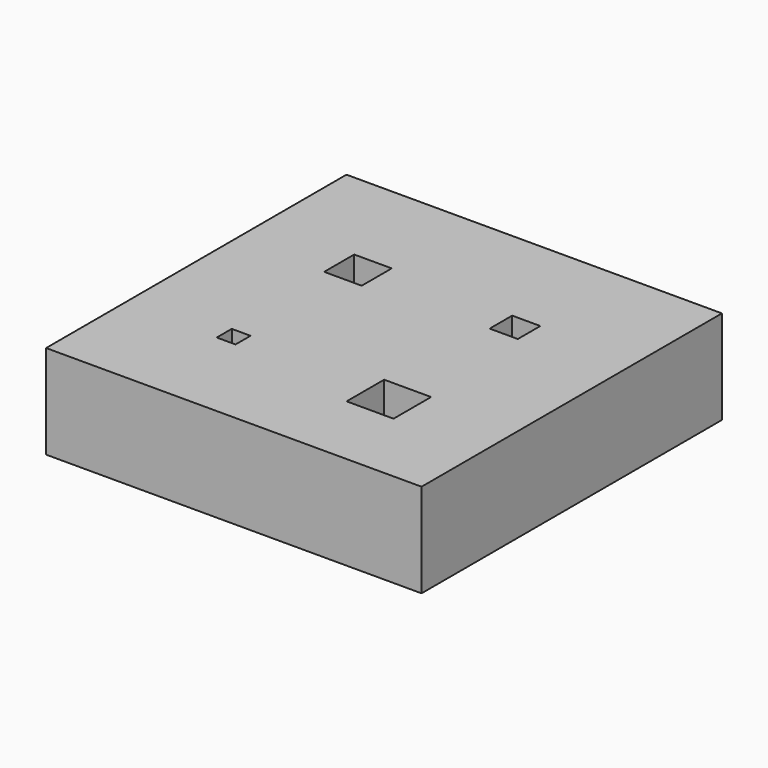
from build123d import *

# Parameters (mm, degrees)
SKETCH_W   = 8
SKETCH_H   = 8
SKETCH_W_2 = 0.4
SKETCH_H_2 = 0.4
SKETCH_W_3 = 0.6
SKETCH_H_3 = 0.6
SKETCH_W_4 = 0.8
SKETCH_H_4 = 0.8
SKETCH_W_5 = 1
SKETCH_H_5 = 1
PAD_DEPTH  = 2


with BuildPart() as part:
    # Sketch → Pad (new body)
    with BuildSketch(Plane.XY):
        with Locations((4, 4)):
            Rectangle(SKETCH_W, SKETCH_H)
        with Locations((2.180874, 2.269564)):
            Rectangle(SKETCH_W_2, SKETCH_H_2, mode=Mode.SUBTRACT)
        with Locations((5.62591, 5.456539)):
            Rectangle(SKETCH_W_3, SKETCH_H_3, mode=Mode.SUBTRACT)
        with Locations((2.297956, 5.433593)):
            Rectangle(SKETCH_W_4, SKETCH_H_4, mode=Mode.SUBTRACT)
        with Locations((5.604724, 2.123321)):
            Rectangle(SKETCH_W_5, SKETCH_H_5, mode=Mode.SUBTRACT)
    extrude(amount=PAD_DEPTH)


solid = part.part
